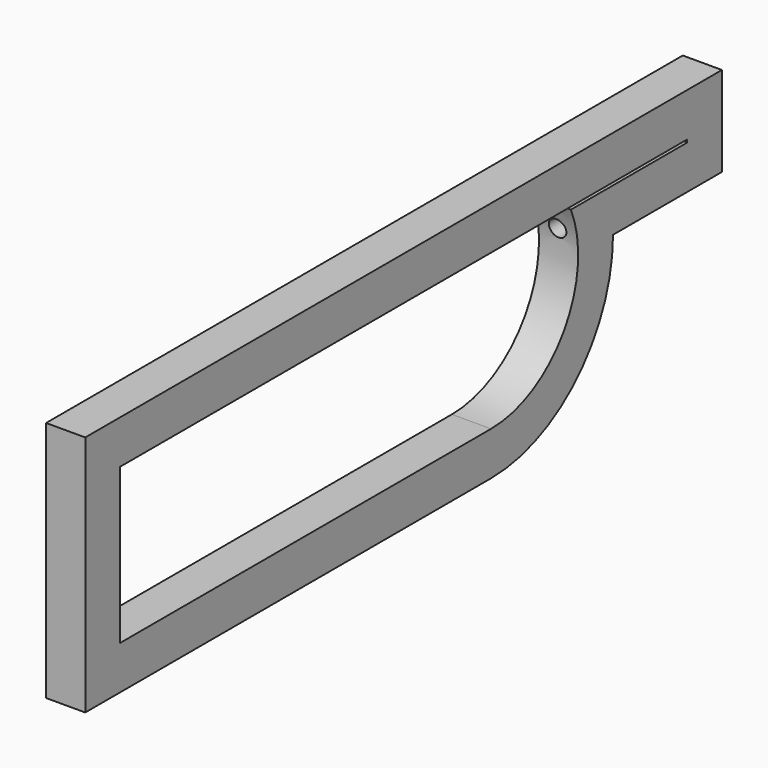
from build123d import *

# Parameters (mm, degrees)
F1_DEPTH = 2.286
F2_T     = -2.54
F4_D     = 1.016
F4_DEPTH = 18.034
F4_TIP   = 0.3052371945


with BuildPart() as f1:
    # F0 (on Right) → F1 (new body)
    with BuildSketch(Plane.YZ):
        with BuildLine():
            Line((-35.6506742537, 8.3372171661), (-74.139625051, 8.3372171661))
            Line((-74.139625051, 8.3372171661), (-74.139625051, -5.7919719098))
            Line((-74.139625051, -5.7919719098), (-44.5406742537, -5.7919719098))
            ThreePointArc((-44.5406742537, -5.7919719098), (-38.254494969, -3.1881511945), (-35.6506742537, 3.0980280902))
            Line((-35.6506742537, 3.0980280902), (-35.6506742537, 8.3372171661))
        make_face()
        Polygon((-27.7069620788, 8.3372171661), (-35.6506742537, 3.0980280902), (-27.7069620788, 3.0980280902), align=None)
        Polygon((-27.7069620788, 8.3372171661), (-35.6506742537, 8.3372171661), (-35.6506742537, 3.0980280902), align=None)
    extrude(amount=F1_DEPTH)

    # F2
    f2_openings = [f1.faces().sort_by_distance(p)[0] for p in [
        (2.286, -53.710375, 1.749572),
        (0, -53.710375, 1.749572),
    ]]
    offset(amount=F2_T, openings=f2_openings, kind=Kind.INTERSECTION)

    # F4
    with Locations(Plane(origin=(0, -27.7069620788, 0), x_dir=(-1, 0, 0), z_dir=(0, 1, 0))):
        with Locations((-1.1559764389, 7.2045344859), (-1.1559764389, 5.5570374243), (-1.1559764389, 4.1465191171)):
            Hole(F4_D / 2, depth=F4_DEPTH)
            with Locations((0, 0, -(F4_DEPTH + F4_TIP / 2))):  # 118° drill point
                Cone(0, F4_D / 2, F4_TIP, mode=Mode.SUBTRACT)


solid = f1.part
